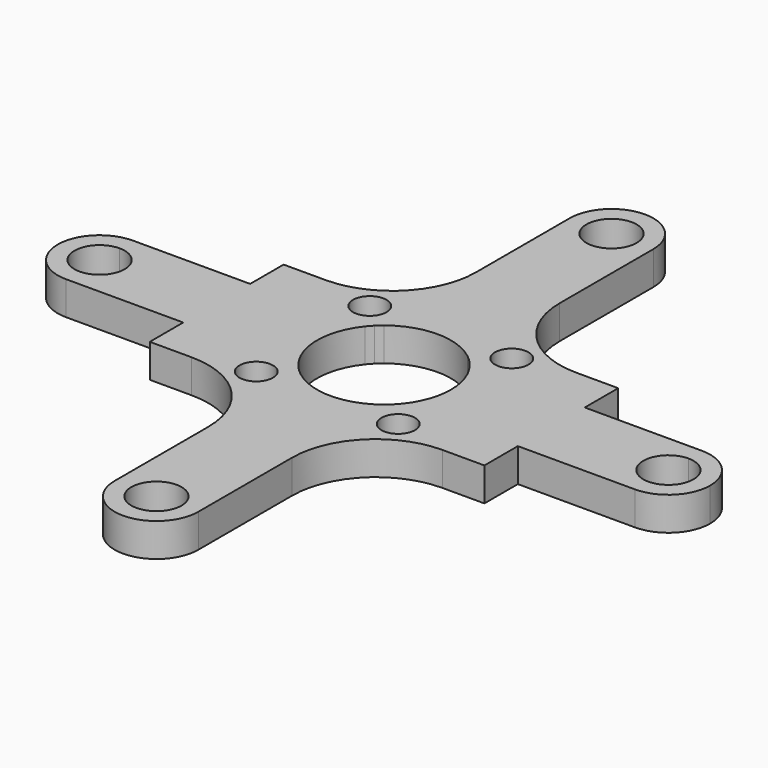
from build123d import *

# Parameters (mm, degrees)
F0_R     = 1
F1_DEPTH = 2


with BuildPart() as f1:
    # F0 (on Top) → F1 (new body)
    with BuildSketch(Plane.XY):
        with BuildLine():
            ThreePointArc((-1.5, 17), (0, 18.5), (1.5, 17))
            Line((1.5, 17), (2.5, 17))
            ThreePointArc((2.5, 17), (0, 19.5), (-2.5, 17))
            Line((-2.5, 17), (-1.5, 17))
        make_face()
        with BuildLine():
            Line((2.5, 17), (1.5, 17))
            ThreePointArc((1.5, 17), (0, 15.5), (-1.5, 17))
            Line((-1.5, 17), (-2.5, 17))
            ThreePointArc((-2.5, 17), (0, 14.5), (2.5, 17))
        make_face()
        with BuildLine():
            Line((2.5, 10), (2.5, 17))
            ThreePointArc((2.5, 17), (0, 14.5), (-2.5, 17))
            Line((-2.5, 17), (-2.5, 10))
            ThreePointArc((-2.5, 10), (-3.9644660941, 6.4644660941), (-7.5, 5))
            Line((-7.5, 5), (-10, 5))
            Line((-10, 5), (-10, 2.5))
            Line((-10, 2.5), (-3.1224989992, 2.5))
            ThreePointArc((-3.1224989992, 2.5), (-2.979991028, 2.6682678787), (-2.8284271247, 2.8284271247))
            ThreePointArc((-2.8284271247, 2.8284271247), (-2.6682678787, 2.979991028), (-2.5, 3.1224989992))
            ThreePointArc((-2.5, 3.1224989992), (0, 4), (2.5, 3.1224989992))
            ThreePointArc((2.5, 3.1224989992), (2.8284271247, 2.8284271247), (3.1224989992, 2.5))
            Line((3.1224989992, 2.5), (10, 2.5))
            Line((10, 2.5), (10, 5))
            Line((10, 5), (7.5, 5))
            ThreePointArc((7.5, 5), (3.9644660941, 6.4644660941), (2.5, 10))
        make_face()
        with BuildLine():
            ThreePointArc((-3.2426406871, 4.2426406871), (-3.3187611546, 3.8599572548), (-3.5355339059, 3.5355339059))
            ThreePointArc((-3.5355339059, 3.5355339059), (-5.1665202196, 4.6253241195), (-3.2426406871, 4.2426406871))
        make_face(mode=Mode.SUBTRACT)
        with Locations((4.2426406871, 4.2426406871)):
            Circle(F0_R, mode=Mode.SUBTRACT)
        with BuildLine():
            Line((17, 2.5), (10, 2.5))
            Line((10, 2.5), (10, -2.5))
            Line((10, -2.5), (17, -2.5))
            ThreePointArc((17, -2.5), (14.5, 0), (17, 2.5))
        make_face()
        with BuildLine():
            Line((10, -2.5), (10, 2.5))
            Line((10, 2.5), (3.1224989992, 2.5))
            ThreePointArc((3.1224989992, 2.5), (3.7742546282, 1.3247648854), (4, 0))
            ThreePointArc((4, 0), (3.7742546282, -1.3247648854), (3.1224989992, -2.5))
            Line((3.1224989992, -2.5), (10, -2.5))
        make_face()
        with BuildLine():
            Line((10, -5), (10, -2.5))
            Line((10, -2.5), (3.1224989992, -2.5))
            ThreePointArc((3.1224989992, -2.5), (2.8284271247, -2.8284271247), (2.5, -3.1224989992))
            ThreePointArc((2.5, -3.1224989992), (0, -4), (-2.5, -3.1224989992))
            ThreePointArc((-2.5, -3.1224989992), (-2.8284271247, -2.8284271247), (-3.1224989992, -2.5))
            Line((-3.1224989992, -2.5), (-10, -2.5))
            Line((-10, -2.5), (-10, -5))
            Line((-10, -5), (-7.5, -5))
            ThreePointArc((-7.5, -5), (-3.9644660941, -6.4644660941), (-2.5, -10))
            Line((-2.5, -10), (-2.5, -17))
            ThreePointArc((-2.5, -17), (0, -14.5), (2.5, -17))
            Line((2.5, -17), (2.5, -10))
            ThreePointArc((2.5, -10), (3.9644660941, -6.4644660941), (7.5, -5))
            Line((7.5, -5), (10, -5))
        make_face()
        with Locations((-4.2426406871, -4.2426406871)):
            Circle(F0_R, mode=Mode.SUBTRACT)
        with Locations((4.2426406871, -4.2426406871)):
            Circle(F0_R, mode=Mode.SUBTRACT)
        with BuildLine():
            ThreePointArc((19.5, 0), (18.767766953, 1.767766953), (17, 2.5))
            Line((17, 2.5), (17, 1.5))
            ThreePointArc((17, 1.5), (18.0606601718, 1.0606601718), (18.5, 0))
            ThreePointArc((18.5, 0), (18.0606601718, -1.0606601718), (17, -1.5))
            Line((17, -1.5), (17, -2.5))
            ThreePointArc((17, -2.5), (18.767766953, -1.767766953), (19.5, 0))
        make_face()
        with BuildLine():
            Line((17, 1.5), (17, 2.5))
            ThreePointArc((17, 2.5), (14.5, 0), (17, -2.5))
            Line((17, -2.5), (17, -1.5))
            ThreePointArc((17, -1.5), (15.5, 0), (17, 1.5))
        make_face()
        with BuildLine():
            Line((-3.1224989992, 2.5), (-10, 2.5))
            Line((-10, 2.5), (-10, -2.5))
            Line((-10, -2.5), (-3.1224989992, -2.5))
            ThreePointArc((-3.1224989992, -2.5), (-4, 0), (-3.1224989992, 2.5))
        make_face()
        with BuildLine():
            Line((-10, -2.5), (-10, 2.5))
            Line((-10, 2.5), (-17, 2.5))
            ThreePointArc((-17, 2.5), (-15.232233047, 1.767766953), (-14.5, 0))
            ThreePointArc((-14.5, 0), (-15.232233047, -1.767766953), (-17, -2.5))
            Line((-17, -2.5), (-10, -2.5))
        make_face()
        with BuildLine():
            ThreePointArc((-14.5, 0), (-15.232233047, 1.767766953), (-17, 2.5))
            Line((-17, 2.5), (-17, 1.5))
            ThreePointArc((-17, 1.5), (-15.9393398282, 1.0606601718), (-15.5, 0))
            ThreePointArc((-15.5, 0), (-15.9393398282, -1.0606601718), (-17, -1.5))
            Line((-17, -1.5), (-17, -2.5))
            ThreePointArc((-17, -2.5), (-15.232233047, -1.767766953), (-14.5, 0))
        make_face()
        with BuildLine():
            Line((-17, 1.5), (-17, 2.5))
            ThreePointArc((-17, 2.5), (-19.5, 0), (-17, -2.5))
            Line((-17, -2.5), (-17, -1.5))
            ThreePointArc((-17, -1.5), (-18.5, 0), (-17, 1.5))
        make_face()
        with BuildLine():
            ThreePointArc((-2.5, -17), (0, -19.5), (2.5, -17))
            Line((2.5, -17), (1.5, -17))
            ThreePointArc((1.5, -17), (0, -18.5), (-1.5, -17))
            Line((-1.5, -17), (-2.5, -17))
        make_face()
        with BuildLine():
            Line((1.5, -17), (2.5, -17))
            ThreePointArc((2.5, -17), (0, -14.5), (-2.5, -17))
            Line((-2.5, -17), (-1.5, -17))
            ThreePointArc((-1.5, -17), (0, -15.5), (1.5, -17))
        make_face()
    extrude(amount=F1_DEPTH)


solid = f1.part
